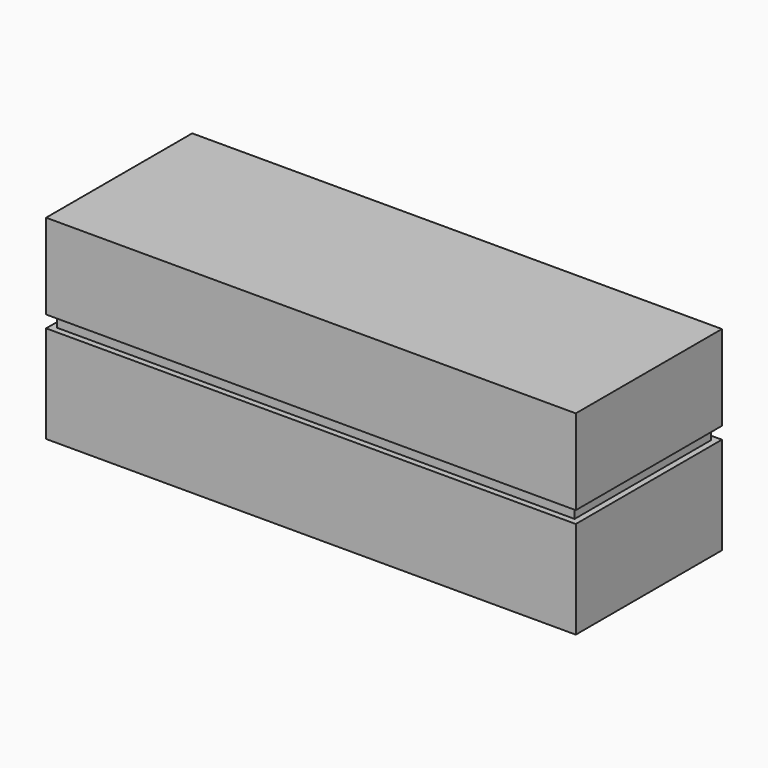
from build123d import *

# Parameters (mm, degrees)
SKETCH_W        = 87
SKETCH_H        = 30
PAD_DEPTH       = 16
SKETCH001_W     = 83
SKETCH001_H     = 26
POCKET_DEPTH    = 15
SKETCH002_W     = 87
SKETCH002_H     = 30
SKETCH002_W_2   = 85
SKETCH002_H_2   = 28
POCKET001_DEPTH = 2
FILLET_R        = 1
SKETCH003_W     = 87
SKETCH003_H     = 30
PAD001_DEPTH    = 16
SKETCH004_W     = 85
SKETCH004_H     = 28
POCKET002_DEPTH = 15


with BuildPart() as obj1:
    # Sketch → Pad (new body)
    with BuildSketch(Plane.XY):
        Rectangle(SKETCH_W, SKETCH_H)
    extrude(amount=PAD_DEPTH)

    # Sketch001 → Pocket (cut)
    with BuildSketch(Plane.XY):
        Rectangle(SKETCH001_W, SKETCH001_H)
    extrude(amount=POCKET_DEPTH, mode=Mode.SUBTRACT)

    # Sketch002 → Pocket001 (cut)
    with BuildSketch(Plane.XY):
        Rectangle(SKETCH002_W, SKETCH002_H)
        Rectangle(SKETCH002_W_2, SKETCH002_H_2, mode=Mode.SUBTRACT)
    extrude(amount=POCKET001_DEPTH, mode=Mode.SUBTRACT)

    # Fillet
    fillet_edges = [obj1.edges().sort_by_distance(p)[0] for p in [
        (0, 13, 15),
        (41.5, 0, 15),
        (0, -13, 15),
        (-41.5, 0, 15),
    ]]
    fillet(fillet_edges, radius=FILLET_R)


with BuildPart() as obj2:
    # Sketch003 → Pad001 (new body)
    with BuildSketch(Plane.XY):
        Rectangle(SKETCH003_W, SKETCH003_H)
    extrude(amount=-PAD001_DEPTH)

    # Sketch004 → Pocket002 (cut)
    with BuildSketch(Plane.XY):
        Rectangle(SKETCH004_W, SKETCH004_H)
    extrude(amount=-POCKET002_DEPTH, mode=Mode.SUBTRACT)


solid = Compound([obj1.part, obj2.part])
